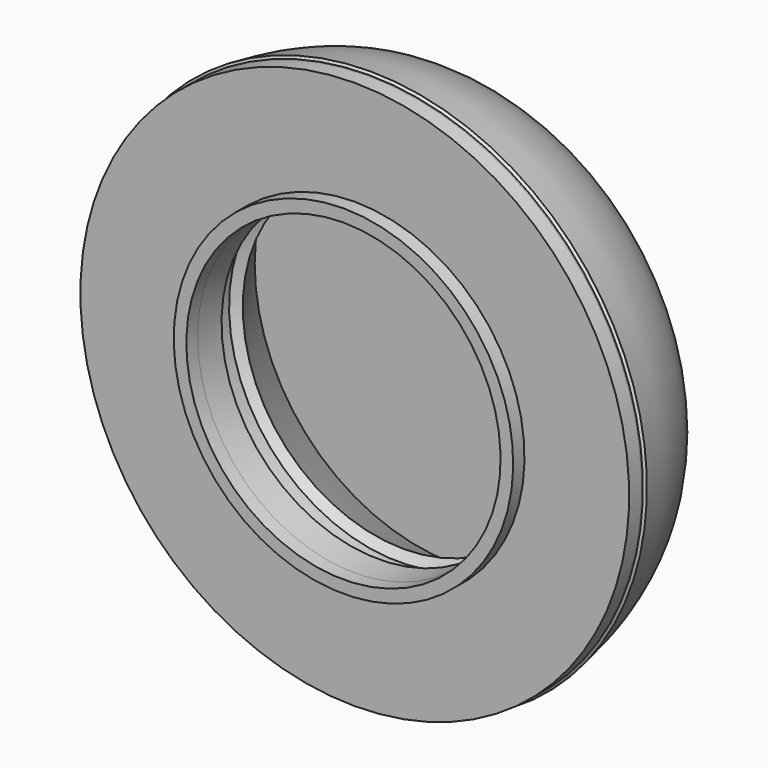
from build123d import *

# Parameters (mm, degrees)
F1_W   = 2
F1_H   = 31.7170210183
F1_W_2 = 0.25
F1_H_2 = 16.6464466094


with BuildPart() as f3:
    # F1 (on Right) → F3 (revolve)
    with BuildSketch(Plane.YZ):
        Polygon((1.25, 27), (1.25, 43.6464466094), (-1.25, 43.6464466094), (-1.25, 27), (-3.5, 27), (-3.5, 25), (-0.5, 25), (-0.5, 26), (3.5, 26), (3.5, 27), (1.5, 27), align=None)
    revolve(axis=Axis((0, -5.4868920706, 0), (0, -1, 0)))


with BuildPart() as f4:
    # F1 (on Right) → F4 (revolve)
    with BuildSketch(Plane.YZ):
        with Locations((19.5, 15.8585105091)):
            Rectangle(F1_W, F1_H)
    revolve(axis=Axis((0, -5.4868920706, 0), (0, -1, 0)))


with BuildPart() as f4b:
    # F1 (on Right) → F4, piece 2 (revolve)
    with BuildSketch(Plane.YZ):
        with Locations((1.375, 35.3232233047)):
            Rectangle(F1_W_2, F1_H_2)
    revolve(axis=Axis((0, -5.4868920706, 0), (0, -1, 0)))


with BuildPart() as f5:
    # F1 (on Right) → F5 (revolve)
    with BuildSketch(Plane.YZ):
        with BuildLine():
            Line((1.8535533906, 44), (1.5, 43.6464466094))
            Line((1.5, 43.6464466094), (1.5, 27))
            Line((1.5, 27), (3.5, 27))
            Line((3.5, 27), (7.5, 27))
            Line((7.5, 27), (8.4809757984, 25.5990213688))
            Line((8.4809757984, 25.5990213688), (18.5, 31.7170210183))
            Line((18.5, 31.7170210183), (20.5, 31.7170210183))
            Line((20.5, 31.7170210183), (21.5, 31.7170210183))
            add(Edge.make_bspline(
                [(1.8535533906, 44), (11.1389525673, 42.5550513347), (19.0029591322, 39.3925085664), (21.5, 31.7170210183)],
                knots=[0, 0, 0, 0, 1, 1, 1, 1], degree=3))
        make_face()
    revolve(axis=Axis((0, -5.4868920706, 0), (0, -1, 0)))


with BuildPart() as f6:
    # F2 (on Right) → F6 (revolve)
    with BuildSketch(Plane.YZ):
        Polygon((1.25, 43.6464466094), (-1.25, 43.6464466094), (-1.25, 25), (3.5, 25), (3.5, 27), (1.25, 27), align=None)
    revolve(axis=Axis((0, -5.4868920706, 0), (0, -1, 0)))


solid = Compound([f3.part, f4.part, f4b.part, f5.part, f6.part])
